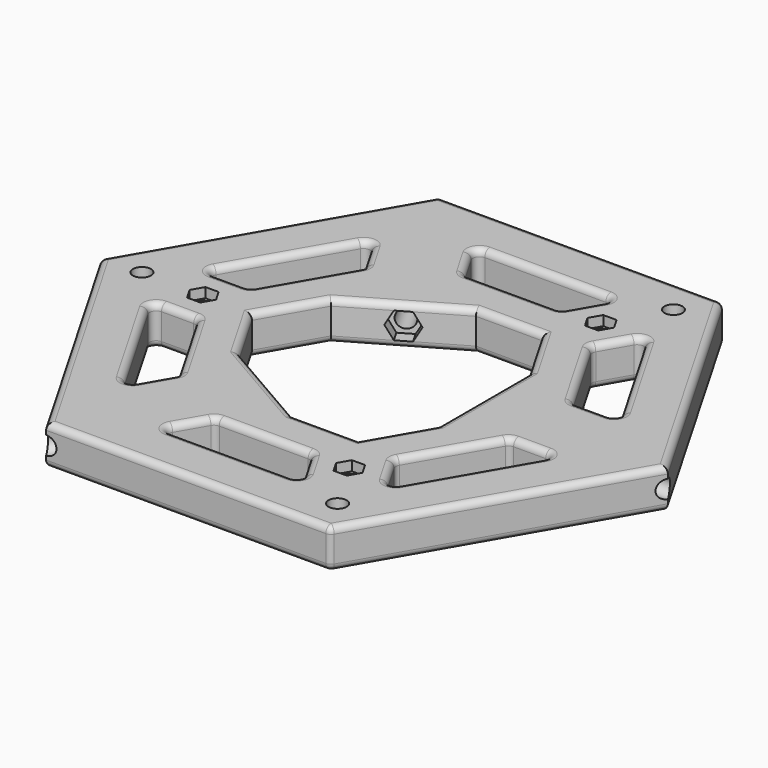
from build123d import *

# Parameters (mm, degrees)
F1_DEPTH       = 12
F2_D           = 5.5
F6_D           = 5.5
F6_DEPTH       = 56.292651246
F6_ON_F3_D     = 5.5
F6_ON_F3_DEPTH = 77.9432863406
F6_ON_F4_D     = 5.5
F6_ON_F4_DEPTH = 77.9432863406
F7_D           = 5.5
F8_R           = 2.75
F9_DEPTH       = 3
F10_R          = 2
F11_DEPTH      = 4
F12_DEPTH      = 4
F13_DEPTH      = 4


with BuildPart() as f1:
    # F0 (on Top) → F1 (new body)
    with BuildSketch(Plane.XY):
        Polygon((43.3012701892, 75), (-43.3012701892, 75), (-86.6025403784, 0), (-43.3012701892, -75), (43.3012701892, -75), (86.6025403784, 0), align=None)
        with BuildLine():
            ThreePointArc((-39.8371685741, -45), (-41.5692193817, -46), (-43.3012701892, -45))
            Line((-43.3012701892, -45), (-61.7764788033, -13))
            ThreePointArc((-61.7764788033, -13), (-61.7764788033, -11), (-60.0444279957, -10))
            Line((-60.0444279957, -10), (-50.2294734195, -10))
            ThreePointArc((-50.2294734195, -10), (-49.2294734195, -10.2679491924), (-48.4974226119, -11))
            Line((-48.4974226119, -11), (-34.929691286, -34.5))
            ThreePointArc((-34.929691286, -34.5), (-34.6617420935, -35.5), (-34.929691286, -36.5))
            Line((-34.929691286, -36.5), (-39.8371685741, -45))
        make_face(mode=Mode.SUBTRACT)
        with BuildLine():
            ThreePointArc((21.36195996, -57), (21.36195996, -59), (19.6299091524, -60))
            Line((19.6299091524, -60), (-17.3205080757, -60))
            ThreePointArc((-17.3205080757, -60), (-19.0525588833, -59), (-19.0525588833, -57))
            Line((-19.0525588833, -57), (-14.1450815951, -48.5))
            ThreePointArc((-14.1450815951, -48.5), (-13.4130307876, -47.7679491924), (-12.4130307876, -47.5))
            Line((-12.4130307876, -47.5), (14.7224318643, -47.5))
            ThreePointArc((14.7224318643, -47.5), (15.7224318643, -47.7679491924), (16.4544826719, -48.5))
            Line((16.4544826719, -48.5), (21.36195996, -57))
        make_face(mode=Mode.SUBTRACT)
        with BuildLine():
            ThreePointArc((58.8897274573, -12), (60.6217782649, -13), (60.6217782649, -15))
            Line((60.6217782649, -15), (42.1465696508, -47))
            ThreePointArc((42.1465696508, -47), (40.4145188433, -48), (38.6824680357, -47))
            Line((38.6824680357, -47), (33.7749907476, -38.5))
            ThreePointArc((33.7749907476, -38.5), (33.5070415552, -37.5), (33.7749907476, -36.5))
            Line((33.7749907476, -36.5), (47.3427220735, -13))
            ThreePointArc((47.3427220735, -13), (48.0747728811, -12.2679491924), (49.0747728811, -12))
            Line((49.0747728811, -12), (58.8897274573, -12))
        make_face(mode=Mode.SUBTRACT)
        with BuildLine():
            ThreePointArc((-60.0444279957, 10), (-61.7764788033, 11), (-61.7764788033, 13))
            Line((-61.7764788033, 13), (-43.3012701892, 45))
            ThreePointArc((-43.3012701892, 45), (-41.5692193817, 46), (-39.8371685741, 45))
            Line((-39.8371685741, 45), (-34.929691286, 36.5))
            ThreePointArc((-34.929691286, 36.5), (-34.6617420935, 35.5), (-34.929691286, 34.5))
            Line((-34.929691286, 34.5), (-48.4974226119, 11))
            ThreePointArc((-48.4974226119, 11), (-49.2294734195, 10.2679491924), (-50.2294734195, 10))
            Line((-50.2294734195, 10), (-60.0444279957, 10))
        make_face(mode=Mode.SUBTRACT)
        Polygon((-30.3108891325, 17.5), (0, 35), (20.2072594216, 35), (30.3108891325, 17.5), (30.3108891325, -17.5), (20.2072594216, -35), (0, -35), (-30.3108891325, -17.5), (-40.4145188433, 0), align=None, mode=Mode.SUBTRACT)
        with BuildLine():
            ThreePointArc((38.6824680357, 47), (40.4145188433, 48), (42.1465696508, 47))
            Line((42.1465696508, 47), (60.6217782649, 15))
            ThreePointArc((60.6217782649, 15), (60.6217782649, 13), (58.8897274573, 12))
            Line((58.8897274573, 12), (49.0747728811, 12))
            ThreePointArc((49.0747728811, 12), (48.0747728811, 12.2679491924), (47.3427220735, 13))
            Line((47.3427220735, 13), (33.7749907476, 36.5))
            ThreePointArc((33.7749907476, 36.5), (33.5070415552, 37.5), (33.7749907476, 38.5))
            Line((33.7749907476, 38.5), (38.6824680357, 47))
        make_face(mode=Mode.SUBTRACT)
        with BuildLine():
            ThreePointArc((-19.0525588833, 57), (-19.0525588833, 59), (-17.3205080757, 60))
            Line((-17.3205080757, 60), (19.6299091524, 60))
            ThreePointArc((19.6299091524, 60), (21.36195996, 59), (21.36195996, 57))
            Line((21.36195996, 57), (16.4544826719, 48.5))
            ThreePointArc((16.4544826719, 48.5), (15.7224318643, 47.7679491924), (14.7224318643, 47.5))
            Line((14.7224318643, 47.5), (-12.4130307876, 47.5))
            ThreePointArc((-12.4130307876, 47.5), (-13.4130307876, 47.7679491924), (-14.1450815951, 48.5))
            Line((-14.1450815951, 48.5), (-19.0525588833, 57))
        make_face(mode=Mode.SUBTRACT)
    extrude(amount=F1_DEPTH)

    # F2 (through all)
    with Locations(Plane(origin=(0, 0, 0), x_dir=(1, 0, 0), z_dir=(0, 0, -1))):
        with Locations((37.0125950546, -64.1076951546), (-74.0251901093, 0), (37.0125950546, 64.1076951546)):
            Hole(F2_D / 2)

    # F6 (through all, one way)
    with BuildSketch(Plane(origin=(30.3108891325, 0, 0), x_dir=(0, -1, 0), z_dir=(-1, 0, 0))):
        with Locations((0, 6)):
            Circle(F6_D / 2)
    extrude(amount=-F6_DEPTH, mode=Mode.SUBTRACT)

    # F6 on F3 (through all, one way)
    with BuildSketch(Plane(origin=(-15.1554445662, 26.25, 0), x_dir=(0.8660254038, 0.5, 0), z_dir=(0.5, -0.8660254038, 0))):
        with Locations((0, 6)):
            Circle(F6_ON_F3_D / 2)
    extrude(amount=-F6_ON_F3_DEPTH, mode=Mode.SUBTRACT)

    # F6 on F4 (through all, one way)
    with BuildSketch(Plane(origin=(-15.1554445662, -26.25, 0), x_dir=(-0.8660254038, 0.5, 0), z_dir=(0.5, 0.8660254038, 0))):
        with Locations((0, 6)):
            Circle(F6_ON_F4_D / 2)
    extrude(amount=-F6_ON_F4_DEPTH, mode=Mode.SUBTRACT)

    # F7 (through all)
    with Locations(Plane(origin=(0, 0, 0), x_dir=(1, 0, 0), z_dir=(0, 0, -1))):
        with Locations((-55.4145188433, 0), (27.7072594216, 47.9903810568), (27.7072594216, -47.9903810568)):
            Hole(F7_D / 2)

    # F8 (on face) → F9 (cut)
    with BuildSketch(Plane.XY.offset(12)):
        Polygon((-53.3937929011, 3.5), (-57.4352447854, 3.5), (-59.4559707276, 0), (-57.4352447854, -3.5), (-53.3937929011, -3.5), (-51.3730669589, 0), align=None)
        with Locations((-55.4145188433, 0)):
            Circle(F8_R, mode=Mode.SUBTRACT)
        Polygon((29.7279853638, -44.4903810568), (25.6865334795, -44.4903810568), (23.6658075373, -47.9903810568), (25.6865334795, -51.4903810568), (29.7279853638, -51.4903810568), (31.748711306, -47.9903810568), align=None)
        with Locations((27.7072594216, -47.9903810568)):
            Circle(F8_R, mode=Mode.SUBTRACT)
        Polygon((29.7279853638, 51.4903810568), (25.6865334795, 51.4903810568), (23.6658075373, 47.9903810568), (25.6865334795, 44.4903810568), (29.7279853638, 44.4903810568), (31.748711306, 47.9903810568), align=None)
        with Locations((27.7072594216, 47.9903810568)):
            Circle(F8_R, mode=Mode.SUBTRACT)
    extrude(amount=-F9_DEPTH, mode=Mode.SUBTRACT)

    # F10
    f10_edges = [f1.edges().sort_by_distance(p)[0] for p in [
        (-15.155445, -26.25, 12),
        (-15.155445, 26.25, 12),
        (25.259074, 26.25, 12),
        (10.10363, 35, 12),
        (30.310889, 0, 12),
        (25.259074, -26.25, 12),
        (10.10363, -35, 12),
        (-35.362704, 8.75, 12),
        (-35.362704, -8.75, 12),
        (-41.713557, -22.75, 12),
        (40.558856, -24.75, 12),
        (40.558856, 24.75, 12),
        (1.154701, 47.5, 12),
        (-41.713557, 22.75, 12),
        (1.154701, -47.5, 12),
        (-64.951905, -37.5, 12),
        (64.951905, 37.5, 12),
        (0, 75, 12),
        (-64.951905, 37.5, 12),
        (64.951905, -37.5, 12),
        (0, -75, 12),
        (40.558856, -24.75, 0),
        (51.384174, 31, 0),
        (1.154701, 60, 0),
        (-52.538874, 29, 0),
        (-41.713557, -22.75, 0),
        (1.154701, -60, 0),
        (-15.155445, 26.25, 0),
        (-35.362704, 8.75, 0),
        (10.10363, 35, 0),
        (30.310889, 0, 0),
        (25.259074, -26.25, 0),
        (-35.362704, -8.75, 0),
        (10.10363, -35, 0),
        (64.951905, 37.5, 0),
        (64.951905, -37.5, 0),
        (0, -75, 0),
        (-64.951905, -37.5, 0),
        (0, 75, 0),
        (-15.155445, -26.25, 0),
        (25.259074, 26.25, 0),
        (-64.951905, 37.5, 0),
        (-86.60254, 0, 6),
        (43.30127, -75, 6),
        (43.30127, 75, 6),
    ]]
    fillet(f10_edges, radius=F10_R)

    # F3 (on face) → F11 (cut)
    with BuildSketch(Plane(origin=(-15.1554445662, 26.25, 0), x_dir=(0.8660254038, 0.5, 0), z_dir=(0.5, -0.8660254038, 0))):
        Polygon((2.3094010768, 10), (-2.3094010768, 10), (-4.6188021535, 6), (-2.3094010768, 2), (2.3094010768, 2), (4.6188021535, 6), align=None)
    extrude(amount=-F11_DEPTH, mode=Mode.SUBTRACT)

    # F4 (on face) → F12 (cut)
    with BuildSketch(Plane(origin=(-15.1554445662, -26.25, 0), x_dir=(-0.8660254038, 0.5, 0), z_dir=(0.5, 0.8660254038, 0))):
        Polygon((-2.3094010768, 2), (2.3094010768, 2), (4.6188021535, 6), (2.3094010768, 10), (-2.3094010768, 10), (-4.6188021535, 6), align=None)
    extrude(amount=-F12_DEPTH, mode=Mode.SUBTRACT)

    # F5 (on face) → F13 (cut)
    with BuildSketch(Plane(origin=(30.3108891325, 0, 0), x_dir=(0, -1, 0), z_dir=(-1, 0, 0))):
        Polygon((2.3094010768, 10), (-2.3094010768, 10), (-4.6188021535, 6), (-2.3094010768, 2), (2.3094010768, 2), (4.6188021535, 6), align=None)
    extrude(amount=-F13_DEPTH, mode=Mode.SUBTRACT)


solid = f1.part
